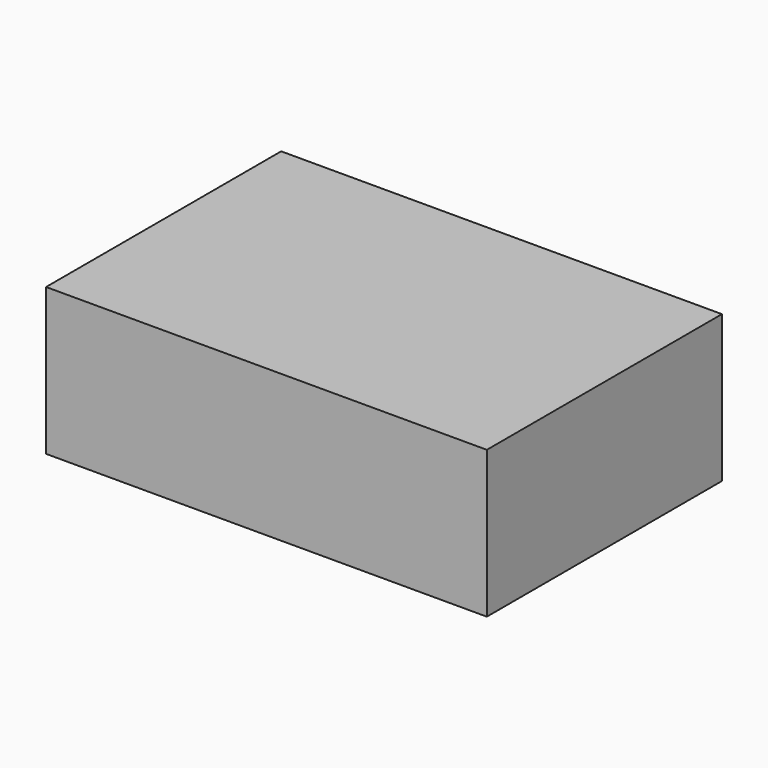
from build123d import *

# Parameters (mm, degrees)
SKETCH_W  = 90
SKETCH_H  = 60
PAD_DEPTH = 15


with BuildPart() as part:
    # Sketch → Pad (new body, symmetric)
    with BuildSketch(Plane.XY):
        Rectangle(SKETCH_W, SKETCH_H)
    extrude(amount=PAD_DEPTH, both=True)


solid = part.part
